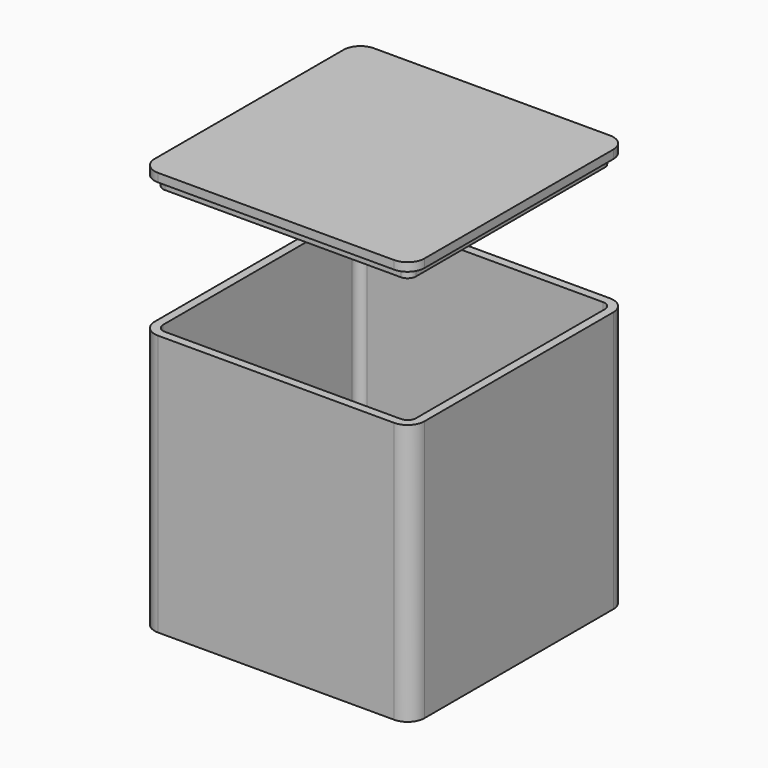
from build123d import *

# Parameters (mm, degrees)
F1_DEPTH = 49.2125
F2_T     = -1.5875
F5_DEPTH = 1.5875
F6_W     = 44.45
F6_H     = 44.45
F7_DEPTH = 1.905


with BuildPart() as f1:
    # F0 (on Top) → F1 (new body)
    with BuildSketch(Plane.XY):
        with BuildLine():
            ThreePointArc((25.4, 22.225), (24.470064, 24.470064), (22.225, 25.4))
            Line((22.225, 25.4), (-22.225, 25.4))
            ThreePointArc((-22.225, 25.4), (-24.470064, 24.470064), (-25.4, 22.225))
            Line((-25.4, 22.225), (-25.4, -22.225))
            ThreePointArc((-25.4, -22.225), (-24.470064, -24.470064), (-22.225, -25.4))
            Line((-22.225, -25.4), (22.225, -25.4))
            ThreePointArc((22.225, -25.4), (24.470064, -24.470064), (25.4, -22.225))
            Line((25.4, -22.225), (25.4, 22.225))
        make_face()
    extrude(amount=F1_DEPTH)

    # F2
    f2_openings = [f1.faces().sort_by_distance(p)[0] for p in [
        (0, 0, 49.2125),
    ]]
    offset(amount=F2_T, openings=f2_openings)


with BuildPart() as f5:
    # F4 (on offset) → F5 (new body)
    with BuildSketch(Plane.XY.offset(74.6125)):
        with BuildLine():
            ThreePointArc((-22.225, 25.4), (-24.470064, 24.470064), (-25.4, 22.225))
            Line((-25.4, 22.225), (-25.4, -22.225))
            ThreePointArc((-25.4, -22.225), (-24.470064, -24.470064), (-22.225, -25.4))
            Line((-22.225, -25.4), (22.225, -25.4))
            ThreePointArc((22.225, -25.4), (24.470064, -24.470064), (25.4, -22.225))
            Line((25.4, -22.225), (25.4, 22.225))
            ThreePointArc((25.4, 22.225), (24.470064, 24.470064), (22.225, 25.4))
            Line((22.225, 25.4), (-22.225, 25.4))
        make_face()
    extrude(amount=F5_DEPTH)

    # F6 (on face) → F7 (join)
    with BuildSketch(Plane(origin=(0, 0, 74.6125), x_dir=(1, 0, 0), z_dir=(0, 0, -1))):
        with BuildLine():
            ThreePointArc((23.8125, 22.225), (23.347532, 23.347532), (22.225, 23.8125))
            Line((22.225, 23.8125), (-22.225, 23.8125))
            ThreePointArc((-22.225, 23.8125), (-23.347532, 23.347532), (-23.8125, 22.225))
            Line((-23.8125, 22.225), (-23.8125, -22.225))
            ThreePointArc((-23.8125, -22.225), (-23.347532, -23.347532), (-22.225, -23.8125))
            Line((-22.225, -23.8125), (22.225, -23.8125))
            ThreePointArc((22.225, -23.8125), (23.347532, -23.347532), (23.8125, -22.225))
            Line((23.8125, -22.225), (23.8125, 22.225))
        make_face()
        Rectangle(F6_W, F6_H, mode=Mode.SUBTRACT)
    extrude(amount=F7_DEPTH)


solid = Compound([f1.part, f5.part])
